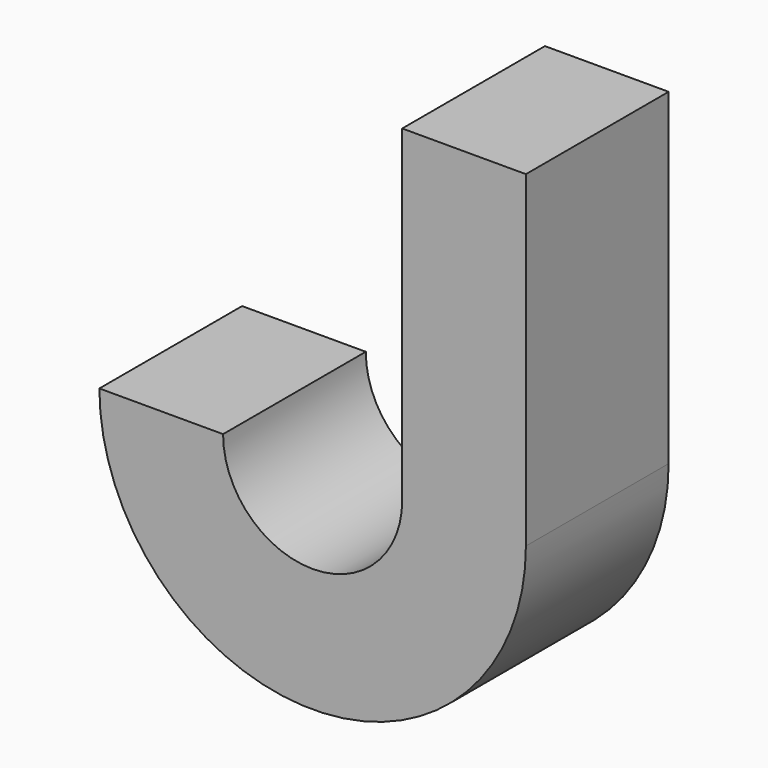
from build123d import *

# Parameters (mm, degrees)
F0_W     = 17.6113117486
F0_H     = 46.6092452407
F1_DEPTH = 25.4


with BuildPart() as f1:
    # F0 (on Front) → F1 (new body)
    with BuildSketch(Plane.XZ):
        with Locations((8.8056558743, 23.3046226203)):
            Rectangle(F0_W, F0_H)
        with BuildLine():
            Line((17.6113117486, 0), (0, 0))
            ThreePointArc((0, 0), (-12.7530172467, -12.7530172467), (-25.5060344934, 0))
            Line((-25.5060344934, 0), (-43.1173443794, 0))
            ThreePointArc((-43.1173443794, 0), (-12.7530163154, -30.364328064), (17.6113117486, 0))
        make_face()
    extrude(amount=F1_DEPTH)


solid = f1.part
